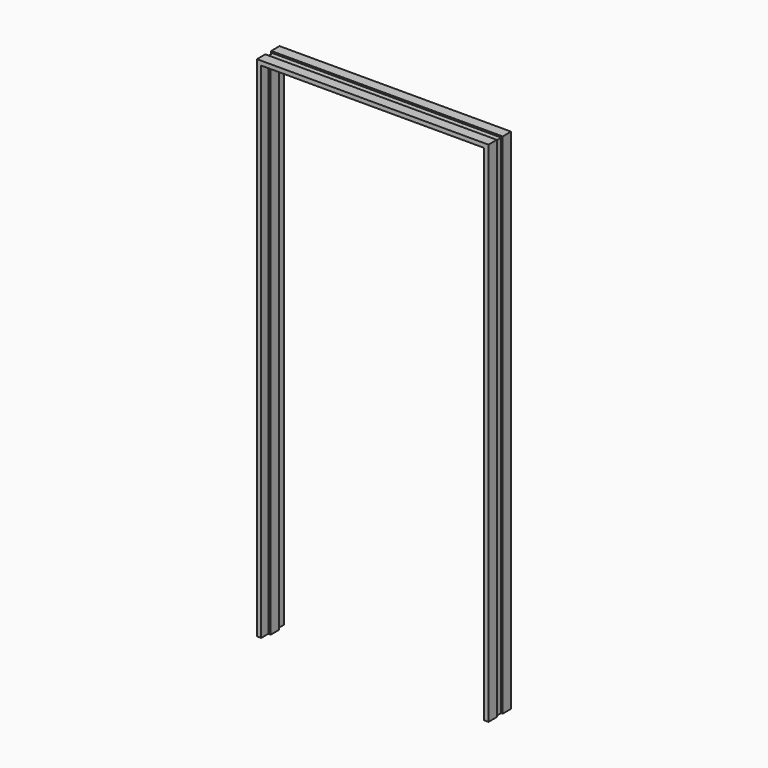
from build123d import *

# Parameters (mm, degrees)
F1_DEPTH = 2083.59375
F3_DEPTH = 115.8885
F5_DEPTH = 949.325
F6_W     = 6.35
F6_H     = 30.1625
F7_DEPTH = 2083.59475


with BuildPart() as f1:
    # F0 (on Top) → F1 (new body)
    with BuildSketch(Plane.XY):
        Polygon((0, 73.025), (0, 115.8875), (-17.4625, 115.8875), (-17.4625, 79.375), (-26.9875, 79.375), (-26.9875, 36.5125), (-17.4625, 36.5125), (-17.4625, 0), (0, 0), (0, 42.8625), (-6.35, 42.8625), (-6.35, 73.025), align=None)
        Polygon((-949.325, 115.8875), (-949.325, 73.025), (-942.975, 73.025), (-942.975, 42.8625), (-949.325, 42.8625), (-949.325, 0), (-931.8625, 0), (-931.8625, 36.5125), (-922.3375, 36.5125), (-922.3375, 79.375), (-931.8625, 79.375), (-931.8625, 115.8875), align=None)
    extrude(amount=F1_DEPTH)

    # F2 (on Front) → F3 (cut, through all)
    with BuildSketch(Plane.XZ):
        Polygon((0, 2083.59375), (-949.325, 2083.59375), (-474.6625, 1608.93125), align=None)
    extrude(amount=-F3_DEPTH, mode=Mode.SUBTRACT)

    # F4 (on Right) → F5 (join, through all)
    with BuildSketch(Plane.YZ):
        Polygon((79.375, 2066.13125), (115.8875, 2066.13125), (115.8875, 2083.59375), (73.025, 2083.59375), (73.025, 2077.24375), (42.8625, 2077.24375), (42.8625, 2083.59375), (0, 2083.59375), (0, 2066.13125), (36.5125, 2066.13125), (36.5125, 2056.60625), (79.375, 2056.60625), align=None)
    extrude(amount=-F5_DEPTH)

    # F6 (on Top) → F7 (cut, through all)
    with BuildSketch(Plane.XY):
        with Locations((-3.175, 57.94375)):
            Rectangle(F6_W, F6_H)
        with Locations((-946.15, 57.94375)):
            Rectangle(F6_W, F6_H)
    extrude(amount=F7_DEPTH, mode=Mode.SUBTRACT)


solid = f1.part
